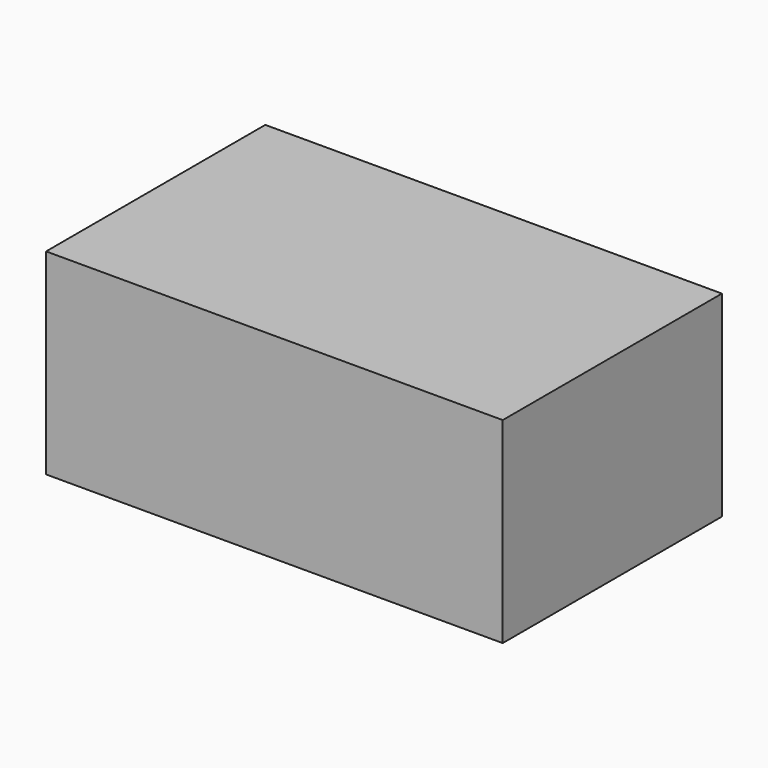
from build123d import *

# Parameters (mm, degrees)
F0_W     = 10000
F0_H     = 6000
F1_DEPTH = 4000
F2_T     = -300
F3_W     = 6000
F3_H     = 2000
F4_DEPTH = 3000
F5_W     = 10000
F5_H     = 6000
F5_W_2   = 9400
F5_H_2   = 5400
F6_DEPTH = 300


with BuildPart() as f1:
    # F0 (on Top) → F1 (new body)
    with BuildSketch(Plane.XY):
        with Locations((-147.9424615742, -0.8937958628)):
            Rectangle(F0_W, F0_H)
    extrude(amount=F1_DEPTH)

    # F2
    f2_openings = [f1.faces().sort_by_distance(p)[0] for p in [
        (-147.942462, -0.893796, 4000),
    ]]
    offset(amount=F2_T, openings=f2_openings)

    # F3 (on face) → F4 (join)
    with BuildSketch(Plane.XY.offset(300)):
        with Locations((-147.9424615742, -0.8937958628)):
            Rectangle(F3_W, F3_H)
    extrude(amount=F4_DEPTH)

    # F5 (on face) → F6 (join)
    with BuildSketch(Plane.XY.offset(4000)):
        with Locations((-147.9424615742, -0.8937958628)):
            Rectangle(F5_W, F5_H)
        with Locations((-147.9424615742, -0.8937958628)):
            Rectangle(F5_W_2, F5_H_2, mode=Mode.SUBTRACT)
        with Locations((-147.9424615742, -0.8937958628)):
            Rectangle(F5_W_2, F5_H_2)
    extrude(amount=F6_DEPTH)


solid = f1.part
